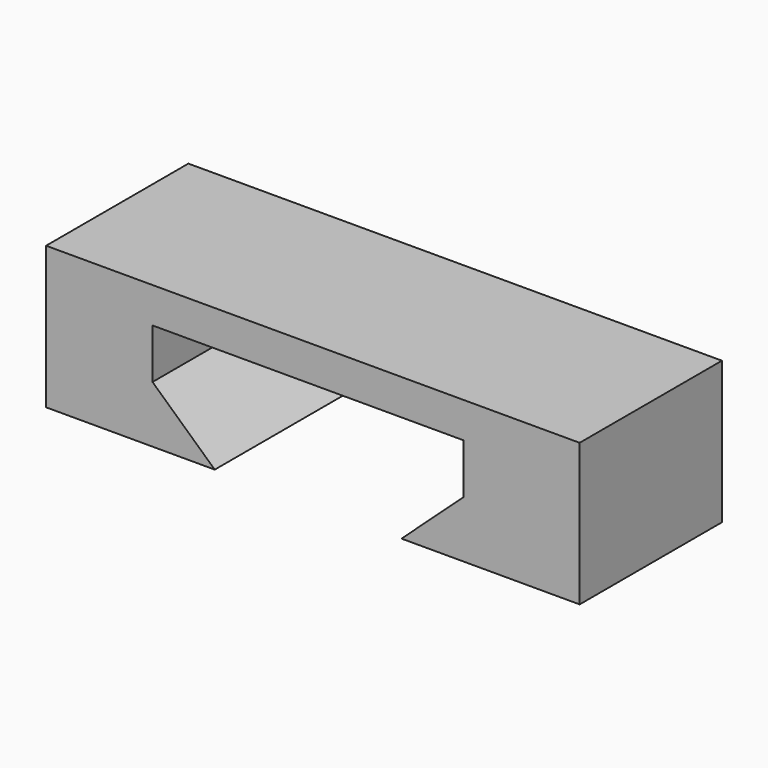
from build123d import *

# Parameters (mm, degrees)
F1_DEPTH = 10


with BuildPart() as f1:
    # F0 (on Front) → F1 (new body)
    with BuildSketch(Plane.XZ):
        Polygon((-14.556362, -1.66957), (-14.556362, -9.66957), (-8.572455, -9.66957), (-8.572455, -6.46957), (-8.572455, -5.778697), (-8.572455, -3.66957), (8.927545, -3.66957), (8.927545, -5.66957), (8.927545, -6.46957), (8.927545, -9.66957), (15.443638, -9.66957), (15.443638, -1.66957), align=None)
        Polygon((-8.572455, -6.46957), (-8.572455, -9.66957), (-5.072455, -9.66957), align=None)
        Polygon((8.927545, -6.46957), (5.427545, -9.66957), (8.927545, -9.66957), align=None)
    extrude(amount=F1_DEPTH)


solid = f1.part
